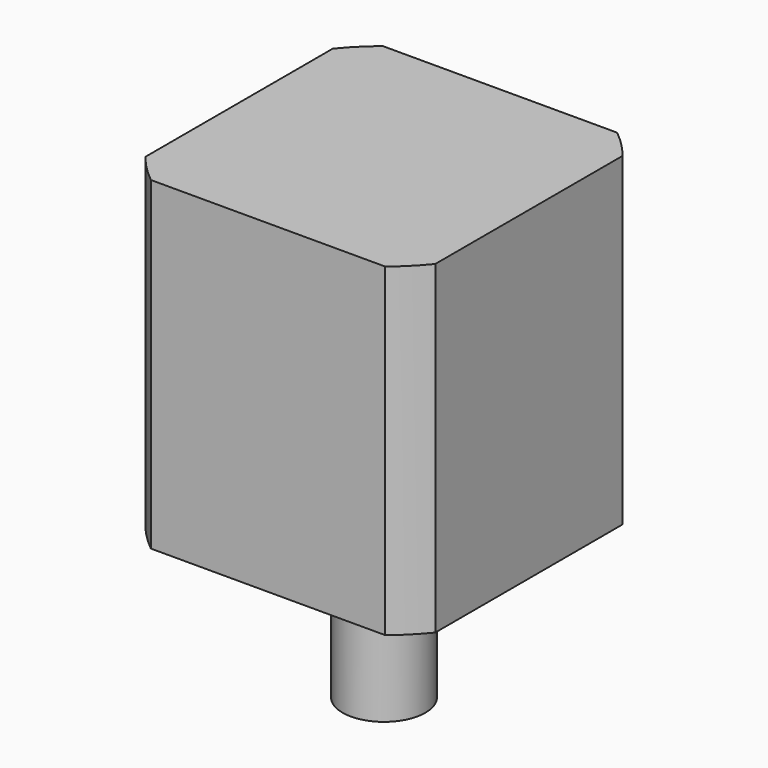
from build123d import *

# Parameters (mm, degrees)
F1_DEPTH = 47
F2_R     = 11
F3_DEPTH = 2
F4_D     = 2.4
F4_DEPTH = 13.8
F4_TIP   = 0.7210327428
F6_DEPTH = 20
F7_R     = 6
F8_DEPTH = 15


with BuildPart() as f1:
    # F0 (on Top) → F1 (new body)
    with BuildSketch(Plane.XY):
        with BuildLine():
            ThreePointArc((21, 16.9705627485), (19.091883092, 19.091883092), (16.9705627485, 21))
            Line((16.9705627485, 21), (-16.9705627485, 21))
            ThreePointArc((-16.9705627485, 21), (-19.091883092, 19.091883092), (-21, 16.9705627485))
            Line((-21, 16.9705627485), (-21, -16.9705627485))
            ThreePointArc((-21, -16.9705627485), (-19.091883092, -19.091883092), (-16.9705627485, -21))
            Line((-16.9705627485, -21), (16.9705627485, -21))
            ThreePointArc((16.9705627485, -21), (19.091883092, -19.091883092), (21, -16.9705627485))
            Line((21, -16.9705627485), (21, 16.9705627485))
        make_face()
    extrude(amount=F1_DEPTH)

    # F2 (on face) → F3 (join)
    with BuildSketch(Plane(origin=(0, 0, 0), x_dir=(1, 0, 0), z_dir=(0, 0, -1))):
        Circle(F2_R)
    extrude(amount=F3_DEPTH)

    # F4
    with Locations(Plane(origin=(0, 0, 0), x_dir=(1, 0, 0), z_dir=(0, 0, -1))):
        with Locations((-15.5, 15.5), (15.5, 15.5), (15.5, -15.5), (-15.5, -15.5)):
            Hole(F4_D / 2, depth=F4_DEPTH)
            with Locations((0, 0, -(F4_DEPTH + F4_TIP / 2))):  # 118° drill point
                Cone(0, F4_D / 2, F4_TIP, mode=Mode.SUBTRACT)

    # F5 (on face) → F6 (join)
    with BuildSketch(Plane(origin=(0, 0, -2), x_dir=(1, 0, 0), z_dir=(0, 0, -1))):
        with BuildLine():
            Line((2, -1.5), (2, 1.5))
            ThreePointArc((2, 1.5), (-2.5, 0), (2, -1.5))
        make_face()
    extrude(amount=F6_DEPTH)

    # F7 (on face) → F8 (join)
    with BuildSketch(Plane(origin=(0, 0, -22), x_dir=(1, 0, 0), z_dir=(0, 0, -1))):
        Circle(F7_R)
    extrude(amount=-F8_DEPTH)


solid = f1.part
